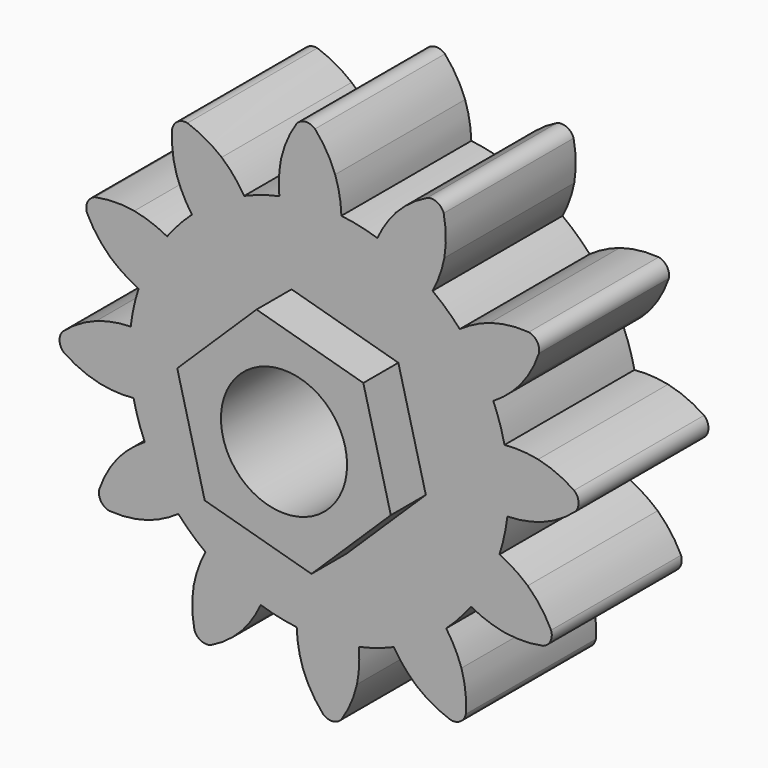
from build123d import *

# Parameters (mm, degrees)
F1_DEPTH = 23
F2_COUNT = 12
F0_R     = 8.9323365914
F3_DEPTH = 29.2


with BuildPart() as f1:
    # F0 (on Front) → F1 (new body)
    with BuildSketch(Plane.XZ):
        with BuildLine():
            ThreePointArc((-1.430105941, 37.8043599743), (2.9480264381, 38.3709128978), (7.3598275006, 38.21268291))
            ThreePointArc((7.3598275006, 38.21268291), (7.1059115447, 40.6764495808), (6.4814269965, 43.0732471463))
            ThreePointArc((6.4814269965, 43.0732471463), (5.2761037826, 45.5878183542), (3.6249864327, 47.8349685287))
            ThreePointArc((3.6249864327, 47.8349685287), (2.2938527312, 48.2892841606), (1.0334071525, 47.6651074485))
            ThreePointArc((1.0334071525, 47.6651074485), (-0.310272704, 45.2216678947), (-1.1770668058, 42.5712829425))
            ThreePointArc((-1.1770668058, 42.5712829425), (-1.4791386758, 40.1971401747), (-1.430105941, 37.8043599743))
        make_face()
        with BuildLine():
            ThreePointArc((-1.430105941, 37.8043599743), (-12.6935408321, -9.348025826), (31.0549458343, 11.5393475513))
            ThreePointArc((31.0549458343, 11.5393475513), (24.2756583786, 29.3783879684), (7.3598275006, 38.21268291))
            ThreePointArc((7.3598275006, 38.21268291), (2.9480264381, 38.3709128978), (-1.430105941, 37.8043599743))
        make_face()
        Polygon((0.3031889381, 26.7559829898), (15.426810236, 22.5175925953), (19.3180671322, 7.3009571569), (8.0857027305, -3.6772878871), (-7.0379185674, 0.5611025073), (-10.9291754636, 15.7777379458), align=None, mode=Mode.SUBTRACT)
    extrude(amount=F1_DEPTH)

    # F2: F1 ×12 about axis
    f2_axis = Axis((4.1944458343, 0, 11.5393475513), (0, 1, 0))


with BuildPart() as f1_1:
    add(f1.part)
    for i in range(1, F2_COUNT):
        add(f1.part.rotate(f2_axis, i * 360 / F2_COUNT))

    # F0 (on Front) → F3 (join)
    with BuildSketch(Plane.XZ):
        Polygon((19.3180671322, 7.3009571569), (15.426810236, 22.5175925953), (0.3031889381, 26.7559829898), (-10.9291754636, 15.7777379458), (-7.0379185674, 0.5611025073), (8.0857027305, -3.6772878871), align=None)
        with Locations((4.1944458343, 11.5393475513)):
            Circle(F0_R, mode=Mode.SUBTRACT)
    extrude(amount=F3_DEPTH)


solid = f1_1.part
